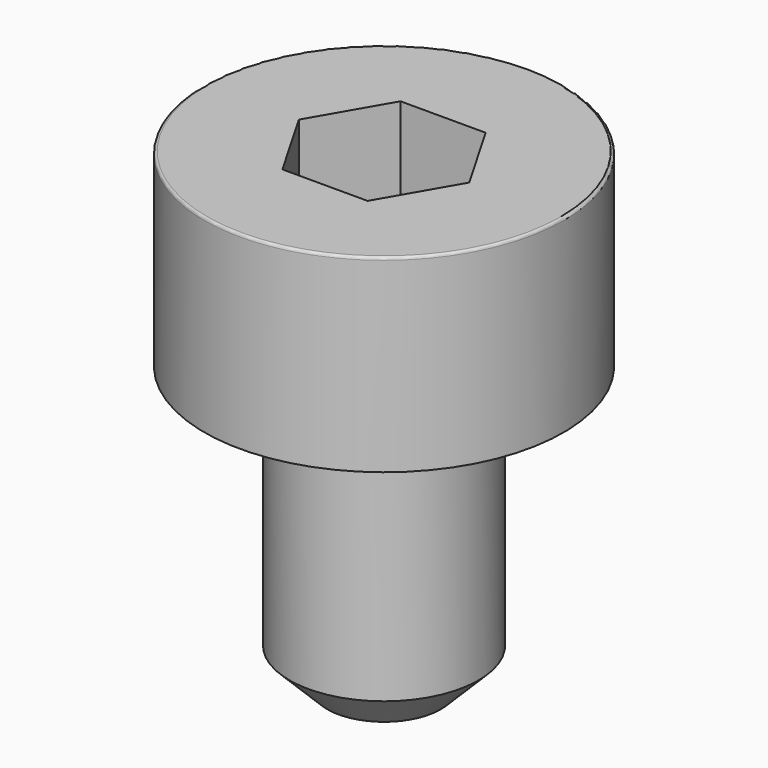
from build123d import *

# Parameters (mm, degrees)
POCKET_DEPTH = 1.56


with BuildPart() as part:
    # Sketch → Revolve (revolve)
    with BuildSketch(Plane.YZ):
        with BuildLine():
            Line((0.999, 0), (1.9, 0))
            Line((1.9, 0), (1.9, 1.97229))
            ThreePointArc((1.9, 1.97229), (1.891884, 1.991884), (1.87229, 2))
            Line((1.87229, 2), (0, 2))
            Line((0, -3), (0, 2))
            Line((0.6, -3), (0, -3))
            Line((1, -2.6), (0.6, -3))
            Line((1, -0.2), (1, -2.6))
            Line((0.999, 0), (1, -0.2))
        make_face()
    revolve(axis=Axis((0, 0, 0), (0, 0, 1)))

    # Sketch001 → Pocket (cut)
    with BuildSketch(Plane.XY.offset(2)):
        Polygon((0.900666, 0), (0.450333, 0.78), (-0.450333, 0.78), (-0.900666, 0), (-0.450333, -0.78), (0.450333, -0.78), align=None)
    extrude(amount=-POCKET_DEPTH, mode=Mode.SUBTRACT)


solid = part.part
